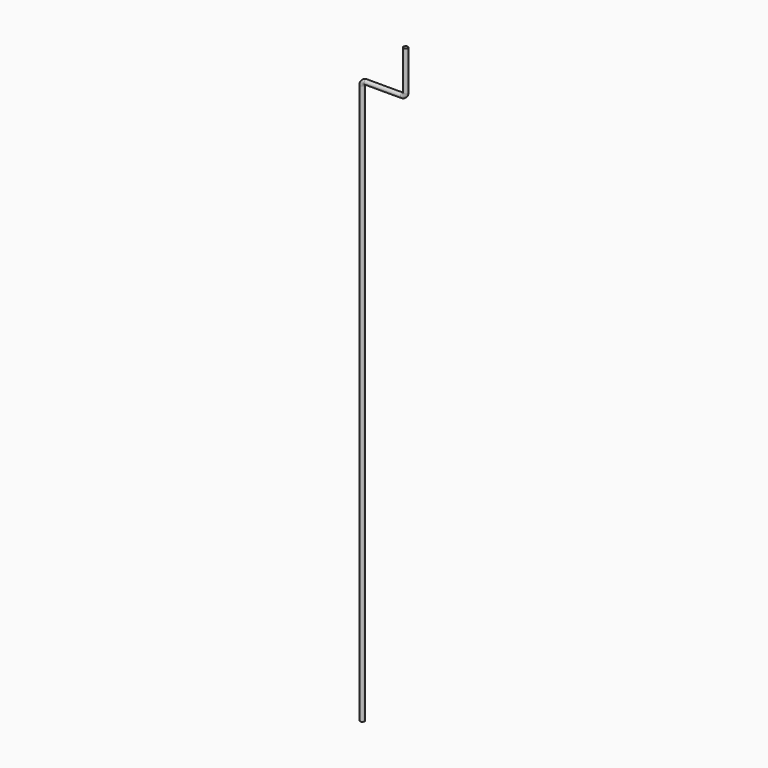
from build123d import *

# Parameters (mm, degrees)
F1_R = 3.96875


with BuildPart() as f2:
    # F2: sweep along a path in F0
    with BuildLine(Plane.XZ) as f2_path:
        Line((-76.2, -1066.8), (-76.2, -82.55))
        ThreePointArc((-76.2, -82.55), (-74.3401280605, -78.0598719395), (-69.85, -76.2))
        Line((-69.85, -76.2), (-6.35, -76.2))
        ThreePointArc((-6.35, -76.2), (-1.8598719395, -74.3401280605), (0, -69.85))
        Line((0, -69.85), (0, 0))
    # F1 (on Top) → F2 (sweep)
    with BuildSketch(Plane.XY):
        Circle(F1_R)
    sweep(path=f2_path.line)


solid = f2.part
